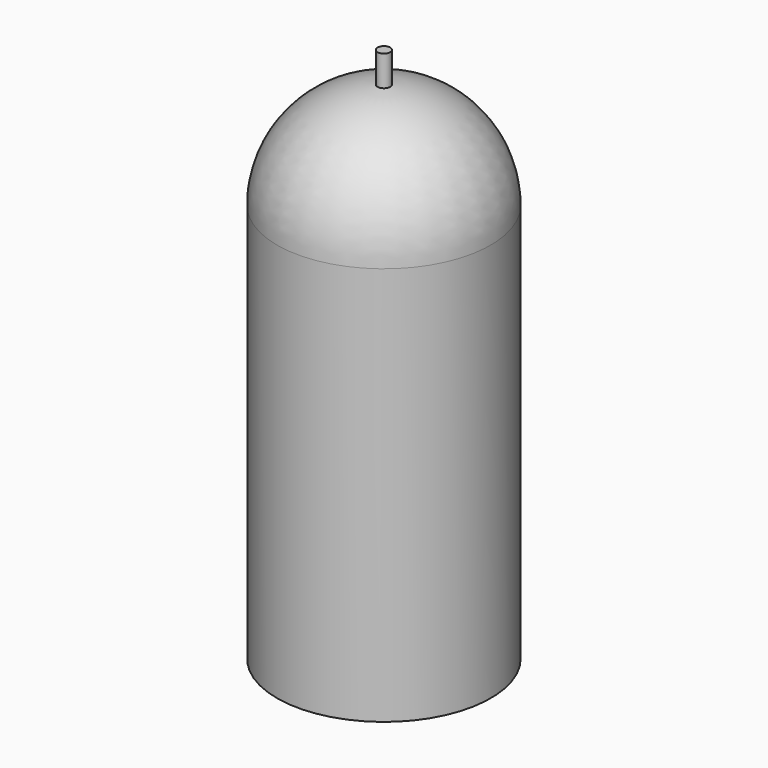
from build123d import *


with BuildPart() as f1:
    # F0 (on Front) → F1 (revolve)
    with BuildSketch(Plane.XZ):
        with BuildLine():
            Line((-26.67, 99.568), (-26.67, 0))
            Line((-26.67, 0), (-24.13, 0))
            Line((-24.13, 0), (-24.13, 2.54))
            ThreePointArc((-24.13, 2.54), (-12.965124, 9.757795), (0, 12.7))
            Line((0, 12.7), (0, 133.810711))
            Line((0, 133.810711), (-1.5875, 133.810711))
            Line((-1.5875, 133.810711), (-1.5875, 126.190711))
            ThreePointArc((-1.5875, 126.190711), (-19.411691, 117.856661), (-26.67, 99.568))
        make_face()
    revolve(axis=Axis((0, 0, 73.255356), (0, 0, 1)))


with BuildPart() as f3:
    # F2 (on Front) → F3 (revolve)
    with BuildSketch(Plane.XZ):
        Polygon((-9.525, 133.810711), (0, 133.810711), (0, 151.590711), (-1.5875, 151.590711), (-1.5875, 138.890711), (-12.065, 138.890711), (-12.065, 121.110711), (-9.525, 121.110711), align=None)
    revolve(axis=Axis((0, 0, 142.700711), (0, 0, -1)))


solid = f1.part
